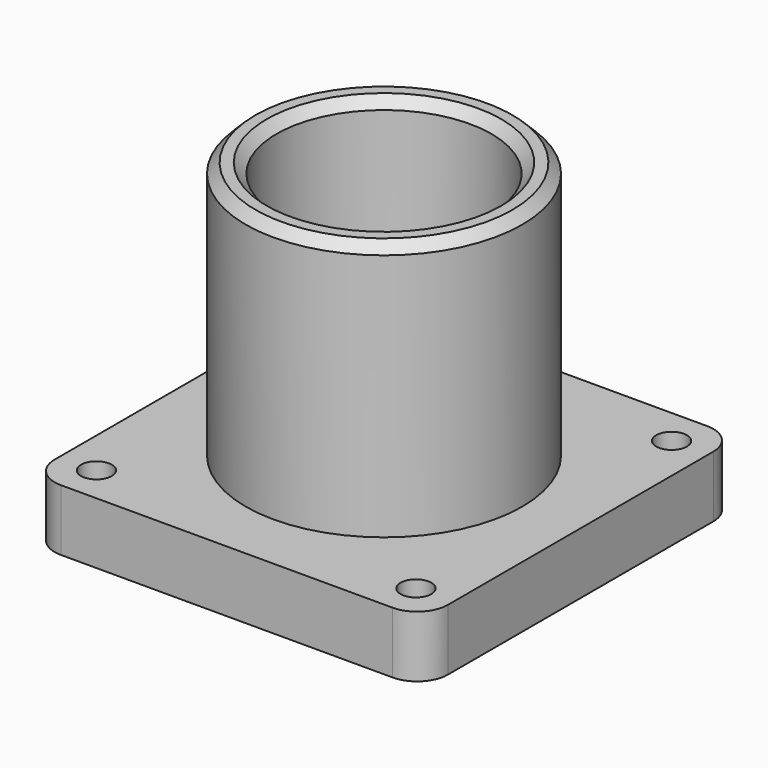
from build123d import *

# Parameters (mm, degrees)
F0_W     = 81.28
F0_H     = 81.28
F1_DEPTH = 12.7
F2_R     = 28.575
F2_R_2   = 22.225
F3_DEPTH = 53.34
F4_R     = 3.175
F5_DEPTH = 12.701
F6_R     = 6.35
F7_SIZE  = 2.032


with BuildPart() as f1:
    # F0 (on Top) → F1 (new body)
    with BuildSketch(Plane.XY):
        Rectangle(F0_W, F0_H)
    extrude(amount=F1_DEPTH)

    # F2 (on face) → F3 (join)
    with BuildSketch(Plane.XY.offset(12.7)):
        Circle(F2_R)
        Circle(F2_R_2, mode=Mode.SUBTRACT)
    extrude(amount=F3_DEPTH)

    # F4 (on face) → F5 (cut, through all)
    with BuildSketch(Plane.XY.offset(12.7)):
        with Locations((33.02, 33.02)):
            Circle(F4_R)
        with Locations((33.02, -33.02)):
            Circle(F4_R)
        with Locations((-33.02, -33.02)):
            Circle(F4_R)
        with Locations((-33.02, 33.02)):
            Circle(F4_R)
    extrude(amount=-F5_DEPTH, mode=Mode.SUBTRACT)

    # F6
    f6_edges = [f1.edges().sort_by_distance(p)[0] for p in [
        (-40.64, -40.64, 6.35),
        (-40.64, 40.64, 6.35),
        (40.64, 40.64, 6.35),
        (40.64, -40.64, 6.35),
    ]]
    fillet(f6_edges, radius=F6_R)

    # F7
    f7_edges = [f1.edges().sort_by_distance(p)[0] for p in [
        (-22.225, 0, 66.04),
        (-28.575, 0, 66.04),
    ]]
    chamfer(f7_edges, length=F7_SIZE)


solid = f1.part
